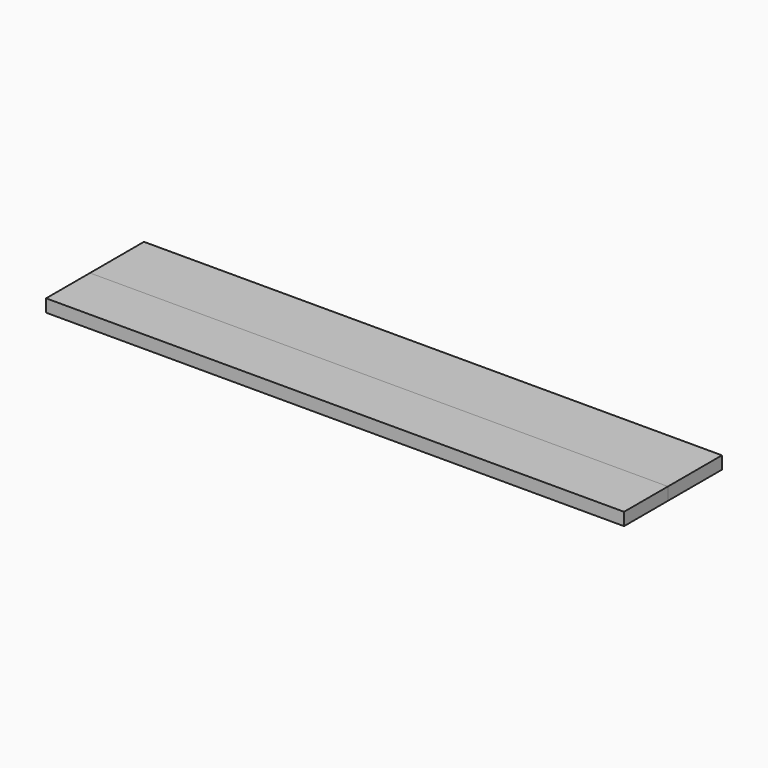
from build123d import *

# Parameters (mm, degrees)
F0_W     = 869.95
F0_H     = 101.6
F1_DEPTH = 19.05
F2_W     = 869.95
F2_H     = 82.55
F3_DEPTH = 19.05


with BuildPart() as f1:
    # F0 (on Top) → F1 (new body)
    with BuildSketch(Plane.XY):
        with Locations((0, 50.8)):
            Rectangle(F0_W, F0_H)
    extrude(amount=F1_DEPTH)


with BuildPart() as f3:
    # F2 (on Top) → F3 (new body, through all)
    with BuildSketch(Plane.XY):
        with Locations((0, -41.275)):
            Rectangle(F2_W, F2_H)
    extrude(amount=F3_DEPTH)


solid = Compound([f1.part, f3.part])
